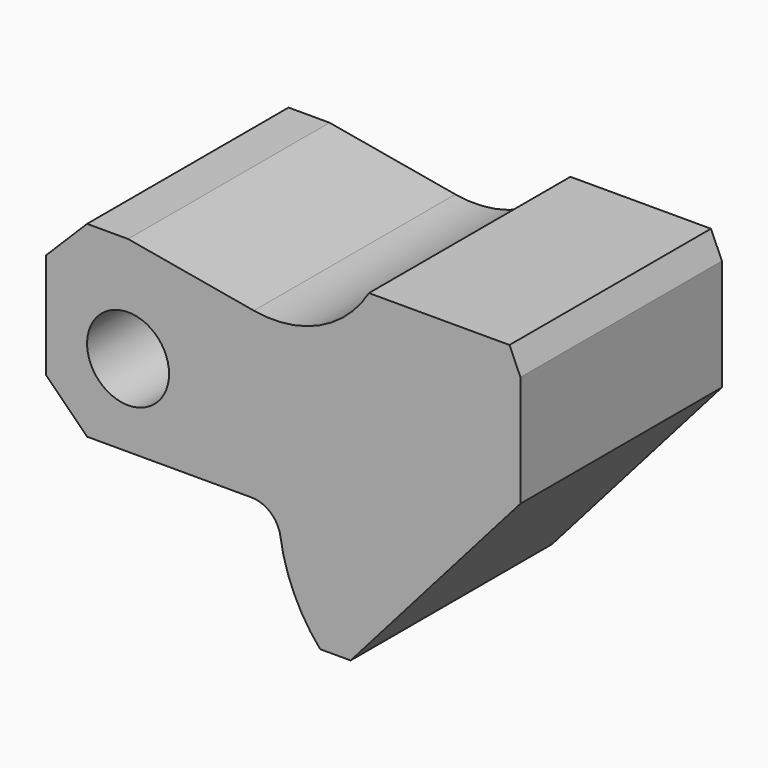
from build123d import *

# Parameters (mm, degrees)
F1_DEPTH = 43


with BuildPart() as f1:
    # F0 (on Front) → F1 (new body)
    with BuildSketch(Plane.XZ):
        with BuildLine():
            ThreePointArc((-7, 0), (0, -7), (7, 0))
            ThreePointArc((7, 0), (0, 7), (-7, 0))
        make_face()
        with BuildLine():
            Line((-14, 11), (-14, 0))
            Line((-14, 0), (-14, -7))
            Line((-14, -7), (-7, -14))
            Line((-7, -14), (0, -14))
            Line((0, -14), (21.066626, -14))
            ThreePointArc((21.066626, -14), (24.331862, -15.213414), (26.012265, -18.264706))
            ThreePointArc((26.012265, -18.264706), (28.349095, -26.115672), (32.788067, -33))
            Line((32.788067, -33), (38, -33))
            Line((38, -33), (67, 0))
            Line((67, 0), (67, 19))
            Line((67, 19), (65.127473, 23.242816))
            Line((65.127473, 23.242816), (41.127473, 23.242816))
            ThreePointArc((41.127473, 23.242816), (32.713444, 15.660003), (21.479572, 14.212572))
            Line((21.479572, 14.212572), (0, 18))
            Line((0, 18), (-7, 18))
            Line((-7, 18), (-14, 11))
        make_face()
        with BuildLine():
            ThreePointArc((-7, 0), (0, 7), (7, 0))
            ThreePointArc((7, 0), (0, -7), (-7, 0))
        make_face(mode=Mode.SUBTRACT)
    extrude(amount=F1_DEPTH)


solid = f1.part
